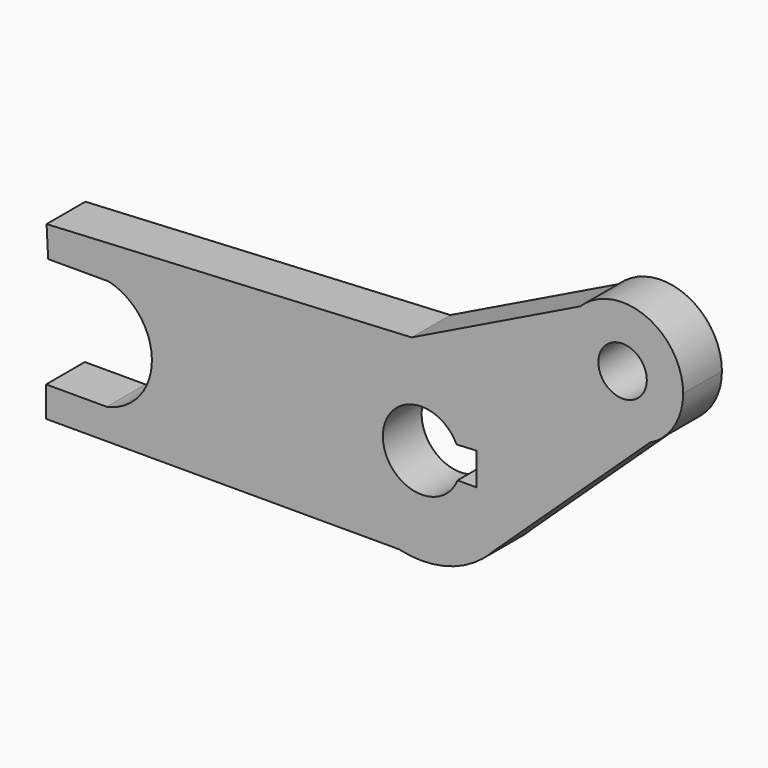
from build123d import *

# Parameters (mm, degrees)
F1_DEPTH = 30


with BuildPart() as f1:
    # F0 (on Front) → F1 (new body)
    with BuildSketch(Plane.XZ):
        with BuildLine():
            ThreePointArc((43.9601876184, -40.8350572983), (55.8462678122, -21.9361430395), (60, 0))
            ThreePointArc((60, 0), (59.3271357487, 8.9605225212), (57.3236345382, 17.7200711998))
            ThreePointArc((57.3236345382, 17.7200711998), (35.6145737586, 48.286666234), (0, 60))
            Line((0, 60), (-6.1995762038, 59.678850985))
            ThreePointArc((-6.1995762038, 59.678850985), (-45.9961514375, 38.5273156726), (-59.8412528078, -4.3617040695))
            ThreePointArc((-59.8412528078, -4.3617040695), (-45.749304661, -38.8201123522), (-14.0443202253, -58.3331558328))
            ThreePointArc((-14.0443202253, -58.3331558328), (13.2837711962, -58.5110367607), (37.8560106248, -46.5502143881))
            Line((37.8560106248, -46.5502143881), (43.9601876184, -40.8350572983))
        make_face()
        with BuildLine():
            ThreePointArc((22.2544550068, -8.9855012298), (-23.9879968678, -0.7589507694), (21.6419337451, 10.3743290757))
            Line((21.6419337451, 10.3743290757), (34, 11.0144987702))
            Line((34, 11.0144987702), (34, -8.9855012298))
            Line((34, -8.9855012298), (22.2544550068, -8.9855012298))
        make_face(mode=Mode.SUBTRACT)
        with BuildLine():
            ThreePointArc((57.3236345382, 17.7200711998), (59.3271357487, 8.9605225212), (60, 0))
            ThreePointArc((60, 0), (55.8462678122, -21.9361430395), (43.9601876184, -40.8350572983))
            Line((43.9601876184, -40.8350572983), (141.2785439355, 50.2811889465))
            ThreePointArc((141.2785439355, 50.2811889465), (117.6128786081, 46.9029106044), (96.7146143427, 58.5106248772))
            Line((96.7146143427, 58.5106248772), (57.3236345382, 17.7200711998))
        make_face()
        with BuildLine():
            ThreePointArc((0, 60), (35.6145737586, 48.286666234), (57.3236345382, 17.7200711998))
            Line((57.3236345382, 17.7200711998), (96.7146143427, 58.5106248772))
            ThreePointArc((96.7146143427, 58.5106248772), (86.9363192525, 84.7896597627), (98.1158209388, 110.5038867865))
            Line((98.1158209388, 110.5038867865), (-6.1995762038, 59.678850985))
            ThreePointArc((-6.1995762038, 59.678850985), (-3.1039443373, 59.9196589572), (0, 60))
        make_face()
        with BuildLine():
            ThreePointArc((37.8560106248, -46.5502143881), (41.0077837597, -43.7991058255), (43.9601876184, -40.8350572983))
            Line((43.9601876184, -40.8350572983), (37.8560106248, -46.5502143881))
        make_face()
        with BuildLine():
            Line((-6.1995762038, 59.678850985), (0, 60))
            ThreePointArc((0, 60), (-3.1039443373, 59.9196589572), (-6.1995762038, 59.678850985))
        make_face()
        with BuildLine():
            ThreePointArc((98.1158209388, 110.5038867865), (86.9363192525, 84.7896597627), (96.7146143427, 58.5106248772))
            ThreePointArc((96.7146143427, 58.5106248772), (117.6128786081, 46.9029106044), (141.2785439355, 50.2811889465))
            ThreePointArc((141.2785439355, 50.2811889465), (156.3471806883, 64.105109847), (161.9227087237, 83.779410083))
            ThreePointArc((161.9227087237, 83.779410083), (138.9096288254, 118.3681242246), (98.1158209388, 110.5038867865))
        make_face()
        with BuildLine():
            ThreePointArc((139.4227087237, 83.779410083), (129.1669853294, 69.5494473463), (112.4237967918, 74.7779595082))
            ThreePointArc((112.4237967918, 74.7779595082), (119.678432118, 98.0093728198), (139.4227087237, 83.779410083))
        make_face(mode=Mode.SUBTRACT)
        with BuildLine():
            ThreePointArc((-59.8412528078, -4.3617040695), (-45.9961514375, 38.5273156726), (-6.1995762038, 59.678850985))
            Line((-6.1995762038, 59.678850985), (-232.1886784593, 47.9722156929))
            Line((-232.1886784593, 47.9722156929), (-231.2155919095, 29.1874026098))
            Line((-231.2155919095, 29.1874026098), (-193.7155919095, 29.1874026098))
            ThreePointArc((-193.7155919095, 29.1874026098), (-174.663504004, 16.9450214035), (-166.9900822915, -4.3617040695))
            Line((-166.9900822915, -4.3617040695), (-59.8412528078, -4.3617040695))
        make_face()
        with BuildLine():
            Line((-232.5, -58.3331558328), (-14.0443202253, -58.3331558328))
            ThreePointArc((-14.0443202253, -58.3331558328), (-45.749304661, -38.8201123522), (-59.8412528078, -4.3617040695))
            Line((-59.8412528078, -4.3617040695), (-166.9900822915, -4.3617040695))
            ThreePointArc((-166.9900822915, -4.3617040695), (-174.663504004, -26.9861874019), (-195, -39.5231558328))
            Line((-195, -39.5231558328), (-232.5, -39.5231558328))
            Line((-232.5, -39.5231558328), (-232.5, -58.3331558328))
        make_face()
    extrude(amount=F1_DEPTH)


solid = f1.part
